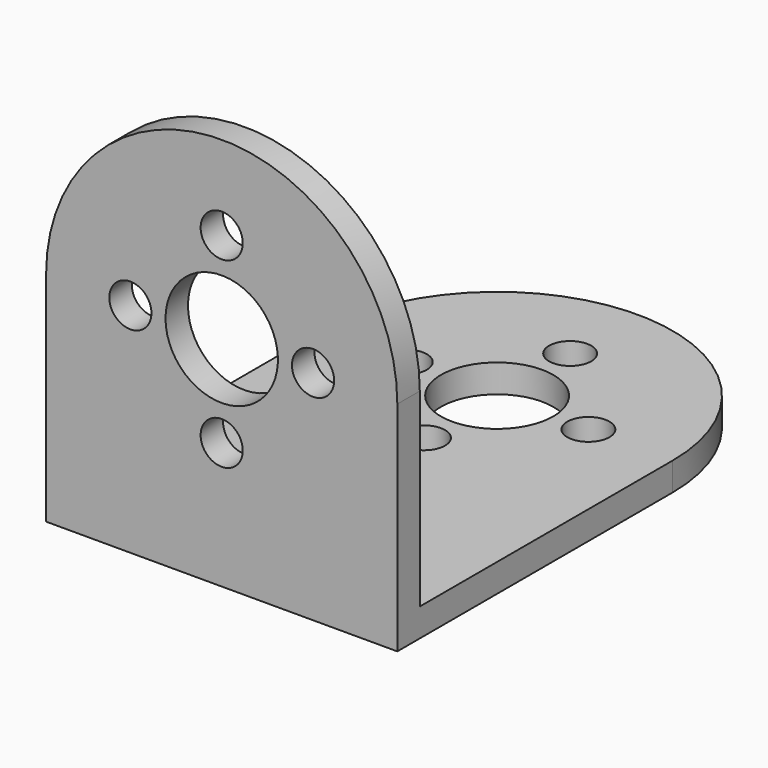
from build123d import *

# Parameters (mm, degrees)
PAD_DEPTH       = 2
SKETCH001_W     = 25
SKETCH001_H     = 2
PAD001_DEPTH    = 26
SKETCH002_R     = 1.5
SKETCH002_R_2   = 4
POCKET_DEPTH    = 5
SKETCH003_R     = 1.5
SKETCH003_R_2   = 4
POCKET001_DEPTH = 5


with BuildPart() as part:
    # Sketch → Pad (new body)
    with BuildSketch(Plane.XY):
        with BuildLine():
            Line((-12.5, 0), (12.5, 0))
            Line((12.5, 0), (12.5, 24.5))
            ThreePointArc((12.5, 24.5), (0, 37), (-12.5, 24.5))
            Line((-12.5, 24.5), (-12.5, 0))
        make_face()
    extrude(amount=PAD_DEPTH)

    # Sketch001 (on Face6 of Pad) → Pad001 (join)
    with BuildSketch(Plane.XY.offset(2)):
        with Locations((0, 1)):
            Rectangle(SKETCH001_W, SKETCH001_H)
    extrude(amount=PAD001_DEPTH)

    # Sketch002 (on Face7 of Pad001) → Pocket (cut)
    with BuildSketch(Plane.XY.offset(2)):
        with Locations((0, 31)):
            Circle(SKETCH002_R)
        with Locations((0, 24.5)):
            Circle(SKETCH002_R_2)
        with Locations((0, 18)):
            Circle(SKETCH002_R)
        with Locations((6.5, 24.5)):
            Circle(SKETCH002_R)
        with Locations((-6.5, 24.5)):
            Circle(SKETCH002_R)
        Polygon((2.266718, 11.226343), (-2.266718, 11.226343), (0, 7.300272), align=None)
    extrude(amount=-POCKET_DEPTH, mode=Mode.SUBTRACT)

    # Sketch003 (on Face19 of Pocket) → Pocket001 (cut)
    with BuildSketch(Plane(origin=(0, 2, 0), x_dir=(-1, 0, 0), z_dir=(0, 1, 0))):
        with Locations((0, 22)):
            Circle(SKETCH003_R)
        with Locations((0, 15.5)):
            Circle(SKETCH003_R_2)
        with Locations((0, 9)):
            Circle(SKETCH003_R)
        with Locations((6.5, 15.5)):
            Circle(SKETCH003_R)
        with Locations((-6.5, 15.5)):
            Circle(SKETCH003_R)
        with BuildLine():
            ThreePointArc((12.5, 15.499975), (2.1e-05, 28), (-12.5, 15.500017))
            Line((-15.082001, 13.79535), (-12.5, 15.500017))
            Line((-17.874443, 34.459404), (-15.082001, 13.79535))
            Line((19.595028, 31.666967), (-17.874443, 34.459404))
            Line((12.5, 15.499975), (19.595028, 31.666967))
        make_face()
    extrude(amount=-POCKET001_DEPTH, mode=Mode.SUBTRACT)


solid = part.part
